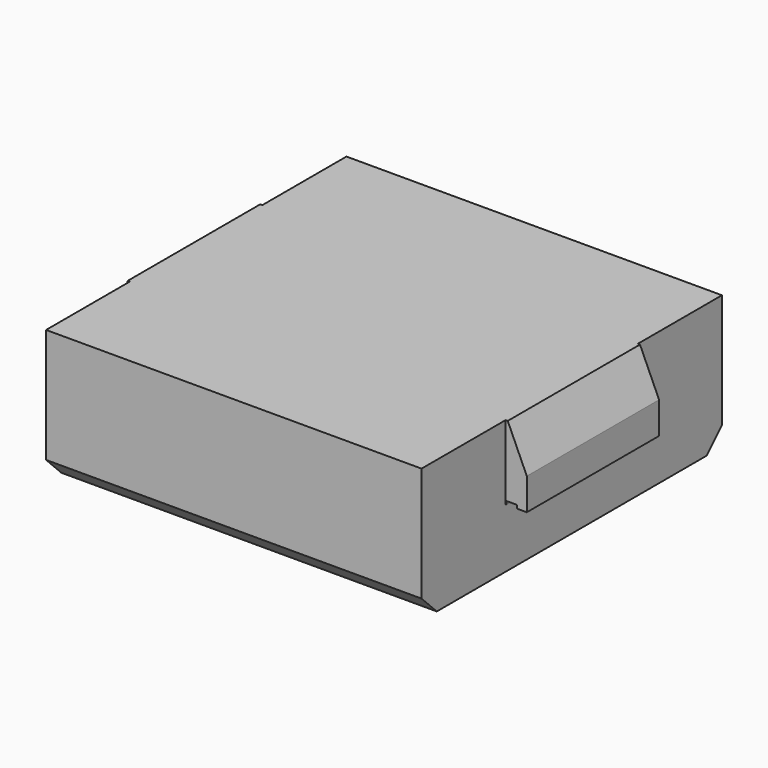
from build123d import *

# Parameters (mm, degrees)
PAD_DEPTH         = 2.25
PAD_DEPTH_BACK    = 2.25
PAD001_DEPTH      = 0.9906
PAD001_DEPTH_BACK = 0.9906
SKETCH002_R       = 0.635
POCKET_DEPTH      = 0.254


with BuildPart() as part:
    # Sketch001 → Pad (new body, two sides)
    with BuildSketch(Plane.YZ) as pad_sk:
        Polygon((-2.25, 1.6), (2.25, 1.6), (2.25, 0.2286), (2.0214, 0), (-2.0214, 0), (-2.25, 0.2286), align=None)
    extrude(amount=PAD_DEPTH)
    extrude(pad_sk.sketch, amount=-PAD_DEPTH_BACK)

    # Sketch → Pad001 (join, two sides)
    with BuildSketch(Plane.XZ) as pad001_sk:
        Polygon((2.25, 1.6), (2.2754, 1.6), (2.504, 1.092), (2.504, 0.71), (2.386, 0.71), (2.386, 0.75), (2.259, 0.75), (2.259, 0.71), (2.25, 0.71), align=None)
    pad001 = extrude(amount=PAD001_DEPTH) + extrude(pad001_sk.sketch, amount=-PAD001_DEPTH_BACK)

    # Mirrored: Pad001 across Sketch V_Axis
    add(pad001.mirror(Plane(origin=(0, 0, 0), x_dir=(0, -1, 0), z_dir=(1, 0, 0))))

    # Sketch002 → Pocket (cut)
    with BuildSketch(Plane.XY):
        Circle(SKETCH002_R)
    extrude(amount=POCKET_DEPTH, mode=Mode.SUBTRACT)


with BuildPart() as part_1:
    # Body placement: moved
    add(part.part.moved(Location((0, 0, 0.287))))


solid = part_1.part
